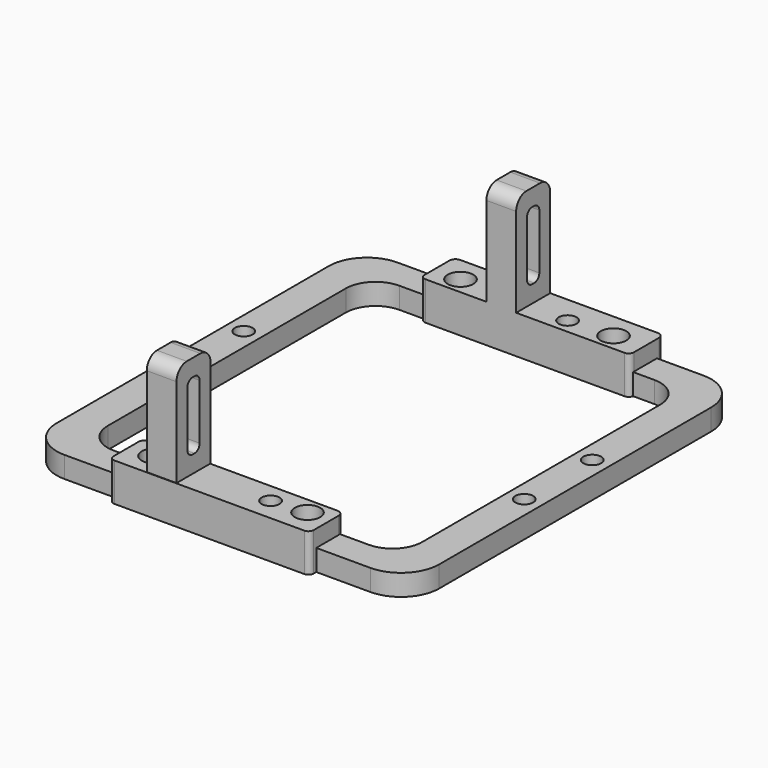
from build123d import *

# Parameters (mm, degrees)
CYLINDER010_R     = 2.1
CYLINDER010_DEPTH = 30
CYLINDER011_R     = 2.1
CYLINDER011_DEPTH = 30
SKETCH002_R       = 1.8
SKETCH002_R_2     = 2.1
EXTRUDE001_DEPTH  = 5
BOX010_W          = 7
BOX010_H          = 3.6
BOX010_DEPTH      = 16
FILLET006_R       = 1.5
BOX009_W          = 7
BOX009_H          = 10
BOX009_DEPTH      = 24
FILLET005_R       = 3
SKETCH006_R       = 3
EXTRUDE005_DEPTH  = 9


with BuildPart() as insert_hole:
    # Cylinder010 → Cylinder010 (new body)
    with BuildSketch(Plane(origin=(7.6, 44.5, 0), x_dir=(1, 0, 0), z_dir=(0, 0, 1))):
        Circle(CYLINDER010_R)
    extrude(amount=CYLINDER010_DEPTH)


with BuildPart() as insert_hole_fusion:
    # Cylinder011 → Cylinder011 (new body)
    with BuildSketch(Plane(origin=(9.8, -45.6, 0), x_dir=(1, 0, 0), z_dir=(0, 0, 1))):
        Circle(CYLINDER011_R)
    extrude(amount=CYLINDER011_DEPTH)

    # Fusion010: union insert hole
    add(insert_hole.part)


with BuildPart() as pair_connector_extrude:
    # Sketch002 → Extrude001 (new body)
    with BuildSketch(Plane.XY):
        with BuildLine():
            Line((-36, -49), (0, -49))
            Line((0, -49), (36, -49))
            ThreePointArc((36, -49), (42.363961, -46.363961), (45, -40))
            Line((45, -40), (45, 0))
            Line((45, 0), (45, 40))
            ThreePointArc((45, 40), (42.363961, 46.363961), (36, 49))
            Line((36, 49), (0, 49))
            Line((0, 49), (-36, 49))
            ThreePointArc((-36, 49), (-42.363961, 46.363961), (-45, 40))
            Line((-45, 40), (-45, 0))
            Line((-45, 0), (-45, -40))
            ThreePointArc((-45, -40), (-42.363961, -46.363961), (-36, -49))
        make_face()
        with Locations((-18, 45)):
            Circle(SKETCH002_R, mode=Mode.SUBTRACT)
        with Locations((18, 45)):
            Circle(SKETCH002_R, mode=Mode.SUBTRACT)
        with Locations((-18, -45)):
            Circle(SKETCH002_R, mode=Mode.SUBTRACT)
        with Locations((18, -45)):
            Circle(SKETCH002_R, mode=Mode.SUBTRACT)
        with Locations((-41, 10)):
            Circle(SKETCH002_R_2, mode=Mode.SUBTRACT)
        with Locations((-41, -10)):
            Circle(SKETCH002_R_2, mode=Mode.SUBTRACT)
        with Locations((41, -10)):
            Circle(SKETCH002_R_2, mode=Mode.SUBTRACT)
        with Locations((41, 10)):
            Circle(SKETCH002_R_2, mode=Mode.SUBTRACT)
        with BuildLine():
            Line((-30, -42), (0, -42))
            Line((0, -42), (30, -42))
            ThreePointArc((30, -42), (34.949747, -39.949747), (37, -35))
            Line((37, -35), (37, 0))
            Line((37, 0), (37, 35))
            ThreePointArc((37, 35), (34.949747, 39.949747), (30, 42))
            Line((30, 42), (0, 42))
            Line((0, 42), (-30, 42))
            ThreePointArc((-30, 42), (-34.949747, 39.949747), (-37, 35))
            Line((-37, 35), (-37, 0))
            Line((-37, 0), (-37, -35))
            ThreePointArc((-37, -35), (-34.949747, -39.949747), (-30, -42))
        make_face(mode=Mode.SUBTRACT)
    extrude(amount=EXTRUDE001_DEPTH)


with BuildPart() as pair_connector_extrude_1:
    # Extrude001 placement: moved
    add(pair_connector_extrude.part.moved(Location((0, 0, 6.2))))


with BuildPart() as stand_hole_fillet:
    # Box010 → Box010 (new body)
    with BuildSketch(Plane(origin=(0, -1.8, 4), x_dir=(1, 0, 0), z_dir=(0, 0, 1))):
        with Locations((3.5, 1.8)):
            Rectangle(BOX010_W, BOX010_H)
    extrude(amount=BOX010_DEPTH)

    # Fillet006
    fillet006_edges = [stand_hole_fillet.edges().sort_by_distance(p)[0] for p in [
        (3.5, -1.8, 4),
        (3.5, -1.8, 20),
        (3.5, 1.8, 4),
        (3.5, 1.8, 20),
    ]]
    fillet(fillet006_edges, radius=FILLET006_R)


with BuildPart() as stand_hole_cut:
    # Box009 → Box009 (new body)
    with BuildSketch(Plane(origin=(0, -5, 0), x_dir=(1, 0, 0), z_dir=(0, 0, 1))):
        with Locations((3.5, 5)):
            Rectangle(BOX009_W, BOX009_H)
    extrude(amount=BOX009_DEPTH)

    # Fillet005
    fillet005_edges = [stand_hole_cut.edges().sort_by_distance(p)[0] for p in [
        (3.5, -5, 24),
        (3.5, 5, 24),
    ]]
    fillet(fillet005_edges, radius=FILLET005_R)

    # Cut005: cut stand hole fillet
    add(stand_hole_fillet.part, mode=Mode.SUBTRACT)


with BuildPart() as negative_stand_compound:
    # Compound022 base: copy of stand hole cut
    add(stand_hole_cut.part)


with BuildPart() as negative_stand_compound_1:
    # Compound022 placement: moved
    add(negative_stand_compound.part.moved(Location((-15.1, -45.9, 15.2))))


with BuildPart() as positive_stand_compound:
    # Compound023 base: copy of stand hole cut
    add(stand_hole_cut.part)


with BuildPart() as positive_stand_compound_1:
    # Compound023 placement: moved
    add(positive_stand_compound.part.moved(Location((-8.7, 46, 15.2))))


with BuildPart() as pair_connector_fusion_cut:
    # Sketch006 → Extrude005 (new body)
    with BuildSketch(Plane.XY):
        with BuildLine():
            Line((-22.841771, 51), (23.601032, 51))
            ThreePointArc((25.015246, 49.585786), (24.601032, 50.585786), (23.601032, 51))
            Line((25.015246, 49.585786), (25.015246, 42.214214))
            ThreePointArc((23.801032, 41), (24.659611, 41.355635), (25.015246, 42.214214))
            Line((23.801032, 41), (-23.041771, 41))
            ThreePointArc((-24.255985, 42.214214), (-23.90035, 41.355635), (-23.041771, 41))
            Line((-24.255985, 42.214214), (-24.255985, 49.585786))
            ThreePointArc((-22.841771, 51), (-23.841771, 50.585786), (-24.255985, 49.585786))
        make_face()
        with Locations((18, 45)):
            Circle(SKETCH006_R, mode=Mode.SUBTRACT)
        with Locations((-18, 45)):
            Circle(SKETCH006_R, mode=Mode.SUBTRACT)
        with BuildLine():
            Line((-22.399903, -41), (21.849301, -41))
            ThreePointArc((23.263515, -42.414214), (22.849301, -41.414214), (21.849301, -41))
            Line((23.263515, -42.414214), (23.263515, -49.785786))
            ThreePointArc((22.049301, -51), (22.90788, -50.644365), (23.263515, -49.785786))
            Line((22.049301, -51), (-22.599903, -51))
            ThreePointArc((-23.814117, -49.785786), (-23.458482, -50.644365), (-22.599903, -51))
            Line((-23.814117, -49.785786), (-23.814117, -42.414214))
            ThreePointArc((-22.399903, -41), (-23.399903, -41.414214), (-23.814117, -42.414214))
        make_face()
        with Locations((-18, -45)):
            Circle(SKETCH006_R, mode=Mode.SUBTRACT)
        with Locations((18, -45)):
            Circle(SKETCH006_R, mode=Mode.SUBTRACT)
    extrude(amount=EXTRUDE005_DEPTH)


with BuildPart() as pair_connector_fusion_cut_1:
    # Extrude005 placement: moved
    add(pair_connector_fusion_cut.part.moved(Location((0, 0, 6.2))))

    # Fusion008: union pair connector extrude, negative stand compound, positive stand compound
    add(pair_connector_extrude_1.part)
    add(negative_stand_compound_1.part)
    add(positive_stand_compound_1.part)

    # Cut007: cut insert hole fusion
    add(insert_hole_fusion.part, mode=Mode.SUBTRACT)


solid = pair_connector_fusion_cut_1.part
